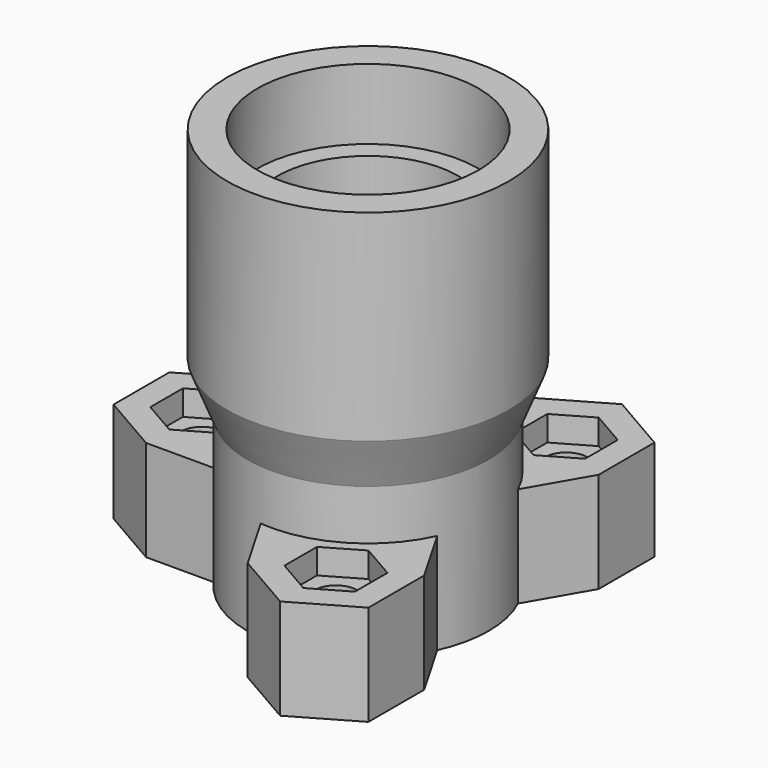
from build123d import *

# Parameters (mm, degrees)
SKETCH_R              = 12
SKETCH_R_2            = 9
PAD_DEPTH             = 39.99
SKETCH001_R           = 11
POCKET_DEPTH          = 7
SKETCH002_R           = 2.1
PAD001_DEPTH          = 10
POLARPATTERN_COUNT    = 3
POCKET001_DEPTH       = 2.5
POLARPATTERN001_COUNT = 3
SKETCH004_R           = 14
SKETCH004_R_2         = 11
PAD002_DEPTH          = 0.01
PAD002_DEPTH_BACK     = 25
CHAMFER_SIZE2         = 5
CHAMFER_SIZE          = 1.99


with BuildPart() as part:
    # Sketch → Pad (new body)
    with BuildSketch(Plane.XY):
        Circle(SKETCH_R)
        Circle(SKETCH_R_2, mode=Mode.SUBTRACT)
    extrude(amount=PAD_DEPTH)

    # Sketch001 (on Face4 of Pad) → Pocket (cut)
    with BuildSketch(Plane.XY.offset(39.99)):
        Circle(SKETCH001_R)
    extrude(amount=-POCKET_DEPTH, mode=Mode.SUBTRACT)

    # Sketch002 (on Face2 of Pocket) → Pad001 (join)
    with BuildSketch(Plane(origin=(0, 0, 0), x_dir=(1, 0, 0), z_dir=(0, 0, -1))):
        with BuildLine():
            Line((-16.52, 6.928203), (-22.52, 3.464102))
            Line((-22.52, 3.464102), (-22.52, -3.464102))
            Line((-22.52, -3.464102), (-16.52, -6.928203))
            Line((-16.52, -6.928203), (-9.797959, -6.928203))
            ThreePointArc((-9.797959, 6.928203), (-12, 0), (-9.797959, -6.928203))
            Line((-16.52, 6.928203), (-9.797959, 6.928203))
        make_face()
        with Locations((-16.52, 0)):
            Circle(SKETCH002_R, mode=Mode.SUBTRACT)
    pad001 = extrude(amount=-PAD001_DEPTH)

    # PolarPattern: Pad001 ×3 about axis
    polarpattern_axis = Axis((0, 0, 0), (0, 0, -1))
    for i in range(1, POLARPATTERN_COUNT):
        add(pad001.rotate(polarpattern_axis, i * 360 / POLARPATTERN_COUNT))

    # Sketch003 (on Face7 of PolarPattern) → Pocket001 (cut, symmetric)
    with BuildSketch(Plane.XY.offset(10)):
        Polygon((-13.02, 2.020726), (-16.52, 4.041452), (-20.02, 2.020726), (-20.02, -2.020726), (-16.52, -4.041452), (-13.02, -2.020726), align=None)
    pocket001 = extrude(amount=POCKET001_DEPTH, both=True, mode=Mode.SUBTRACT)

    # PolarPattern001: Pocket001 ×3 about axis
    polarpattern001_axis = Axis((0, 0, 10), (0, 0, 1))
    for i in range(1, POLARPATTERN001_COUNT):
        add(pocket001.rotate(polarpattern001_axis, i * 360 / POLARPATTERN001_COUNT), mode=Mode.SUBTRACT)

    # Sketch004 (on Face12 of PolarPattern001) → Pad002 (join, two sides)
    with BuildSketch(Plane.XY.offset(39.99)) as pad002_sk:
        Circle(SKETCH004_R)
        Circle(SKETCH004_R_2, mode=Mode.SUBTRACT)
    extrude(amount=PAD002_DEPTH)
    extrude(pad002_sk.sketch, amount=-PAD002_DEPTH_BACK)

    # Chamfer
    chamfer_edges = [part.edges().sort_by_distance(p)[0] for p in [
        (-14, 0, 14.99),
    ]]
    chamfer_side = part.faces().sort_by_distance((-13.60402, 0, 14.99))[0]
    chamfer(chamfer_edges, length=CHAMFER_SIZE, length2=CHAMFER_SIZE2, reference=chamfer_side)


solid = part.part
